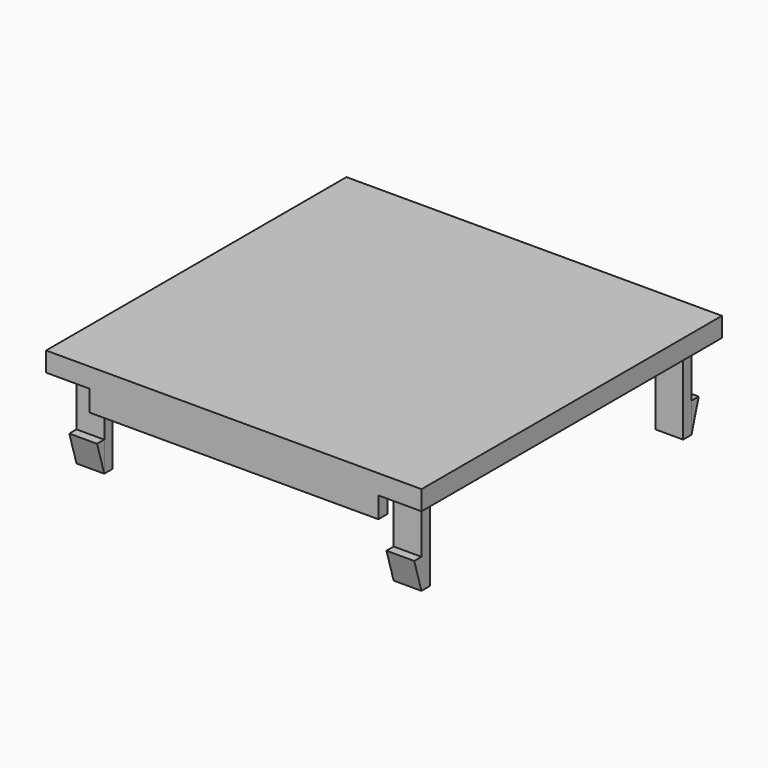
from build123d import *

# Parameters (mm, degrees)
F0_W      = 50
F0_H      = 50
F1_DEPTH  = 2.6
F3_W      = 38.5
F3_H      = 1.5
F4_DEPTH  = 2.8
F5_W      = 3.7
F5_H      = 1.4
F6_DEPTH  = 11
F9_DEPTH  = 3.7
F12_DEPTH = 3.7
F15_DEPTH = 3.7
F18_DEPTH = 3.7


with BuildPart() as f1:
    # F0 (on Top) → F1 (new body)
    with BuildSketch(Plane.XY):
        Rectangle(F0_W, F0_H)
    extrude(amount=F1_DEPTH)

    # F3 (on offset) → F4 (join)
    with BuildSketch(Plane(origin=(0, 0, 0), x_dir=(1, 0, 0), z_dir=(0, 0, -1))):
        with Locations((0, 24.25)):
            Rectangle(F3_W, F3_H)
        with Locations((0, -24.25)):
            Rectangle(F3_W, F3_H)
    extrude(amount=F4_DEPTH)

    # F5 (on offset) → F6 (join)
    with BuildSketch(Plane(origin=(0, 0, 0), x_dir=(1, 0, 0), z_dir=(0, 0, -1))):
        with Locations((21.1365766585, 21.8)):
            Rectangle(F5_W, F5_H)
        with Locations((-21.1, 21.8)):
            Rectangle(F5_W, F5_H)
        with Locations((-21.1, -21.8)):
            Rectangle(F5_W, F5_H)
        with Locations((21.1, -21.8)):
            Rectangle(F5_W, F5_H)
    extrude(amount=F6_DEPTH)

    # F8 (on offset) → F9 (join)
    with BuildSketch(Plane.YZ.offset(22.9865766585)):
        Polygon((-23.7, -7), (-22.5, -11), (-22.5, -7), align=None)
    extrude(amount=-F9_DEPTH)


with BuildPart() as f12:
    # F11 (on offset) → F12 (new body)
    with BuildSketch(Plane(origin=(-22.95, 0, 0), x_dir=(0, -1, 0), z_dir=(-1, 0, 0))):
        Polygon((22.5, -7), (22.5, -11), (23.7, -7), align=None)
    extrude(amount=-F12_DEPTH)


with BuildPart() as f15:
    # F14 (on offset) → F15 (new body)
    with BuildSketch(Plane(origin=(-22.95, 0, 0), x_dir=(0, -1, 0), z_dir=(-1, 0, 0))):
        Polygon((-23.7, -7), (-22.5, -11), (-22.5, -7), align=None)
    extrude(amount=-F15_DEPTH)


with BuildPart() as f18:
    # F17 (on offset) → F18 (new body)
    with BuildSketch(Plane.YZ.offset(22.95)):
        Polygon((22.5, -7), (22.5, -11), (23.7, -7), align=None)
    extrude(amount=-F18_DEPTH)


solid = Compound([f1.part, f12.part, f15.part, f18.part])
